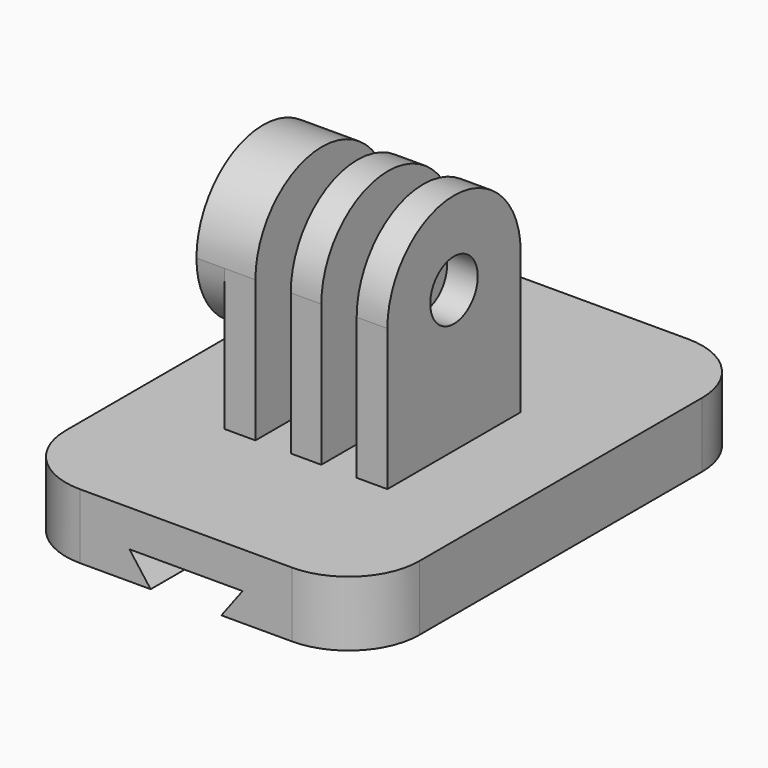
from build123d import *

# Parameters (mm, degrees)
F0_W      = 31.75
F0_H      = 44.45
F1_DEPTH  = 5.842
F3_DEPTH  = 38.1
F4_R      = 2.667
F5_DEPTH  = 9.8425
F6_W      = 2.54
F6_H      = 7.4803
F6_H_2    = 12.7
F6_W_2    = 3.175
F6_H_3    = 5.2197
F7_DEPTH  = 25.4
F9_DEPTH  = 2.54
F10_R     = 6.35
F11_R     = 2.667
F12_DEPTH = 2.54


with BuildPart() as f1:
    # F0 (on Top) → F1 (new body)
    with BuildSketch(Plane.XY):
        Rectangle(F0_W, F0_H)
    extrude(amount=F1_DEPTH)

    # F2 (on face) → F3 (cut)
    with BuildSketch(Plane.XZ.offset(22.225)):
        Polygon((5.08, 2.54), (0, 2.54), (-5.08, 2.54), (-3.175, 0), (3.175, 0), align=None)
    extrude(amount=-F3_DEPTH, mode=Mode.SUBTRACT)

    # F4 (on Right) → F5 (join, symmetric)
    with BuildSketch(Plane.YZ):
        with BuildLine():
            Line((-8.7503, 18.542), (-8.7503, 5.842))
            Line((-8.7503, 5.842), (6.2103, 5.842))
            Line((6.2103, 5.842), (6.2103, 18.542))
            ThreePointArc((6.2103, 18.542), (-1.27, 26.0223), (-8.7503, 18.542))
        make_face()
        with Locations((-1.27, 18.542)):
            Circle(F4_R, mode=Mode.SUBTRACT)
    extrude(amount=F5_DEPTH, both=True)

    # F6 (on face) → F7 (cut)
    with BuildSketch(Plane.XZ.offset(8.7503)):
        with Locations((8.5725, 22.28215)):
            Rectangle(F6_W, F6_H)
        with Locations((8.5725, 12.192)):
            Rectangle(F6_W, F6_H_2)
        with Locations((2.9591, 22.28215)):
            Rectangle(F6_W_2, F6_H)
        with Locations((2.9591, 12.192)):
            Rectangle(F6_W_2, F6_H_2)
        with Locations((-2.9591, 22.28215)):
            Rectangle(F6_W_2, F6_H)
        with Locations((-2.9591, 12.192)):
            Rectangle(F6_W_2, F6_H_2)
        with Locations((-8.5725, 8.45185)):
            Rectangle(F6_W, F6_H_3)
    extrude(amount=-F7_DEPTH, mode=Mode.SUBTRACT)

    # F8 (on face) → F9 (cut)
    with BuildSketch(Plane(origin=(-9.8425, 0, 0), x_dir=(0, -1, 0), z_dir=(-1, 0, 0))):
        with BuildLine():
            ThreePointArc((1.27, 11.0617), (-4.019371, 13.252629), (-6.2103, 18.542))
            Line((-6.2103, 18.542), (-6.2103, 11.0617))
            Line((-6.2103, 11.0617), (1.27, 11.0617))
        make_face()
        with BuildLine():
            ThreePointArc((8.7503, 18.542), (6.559371, 13.252629), (1.27, 11.0617))
            Line((1.27, 11.0617), (8.7503, 11.0617))
            Line((8.7503, 11.0617), (8.7503, 18.542))
        make_face()
    extrude(amount=-F9_DEPTH, mode=Mode.SUBTRACT)

    # F10
    f10_edges = [f1.edges().sort_by_distance(p)[0] for p in [
        (15.875, 22.225, 2.921),
        (-15.875, 22.225, 2.921),
        (-15.875, -22.225, 2.921),
        (15.875, -22.225, 2.921),
    ]]
    fillet(f10_edges, radius=F10_R)

    # F11 (on face) → F12 (cut)
    with BuildSketch(Plane(origin=(-9.8425, 0, 0), x_dir=(0, -1, 0), z_dir=(-1, 0, 0))):
        Polygon((3.528363, 22.4536), (-0.988363, 22.4536), (-3.246727, 18.542), (-0.988363, 14.6304), (3.528363, 14.6304), (5.786727, 18.542), align=None)
        with Locations((1.27, 18.542)):
            Circle(F11_R, mode=Mode.SUBTRACT)
    extrude(amount=-F12_DEPTH, mode=Mode.SUBTRACT)


solid = f1.part
